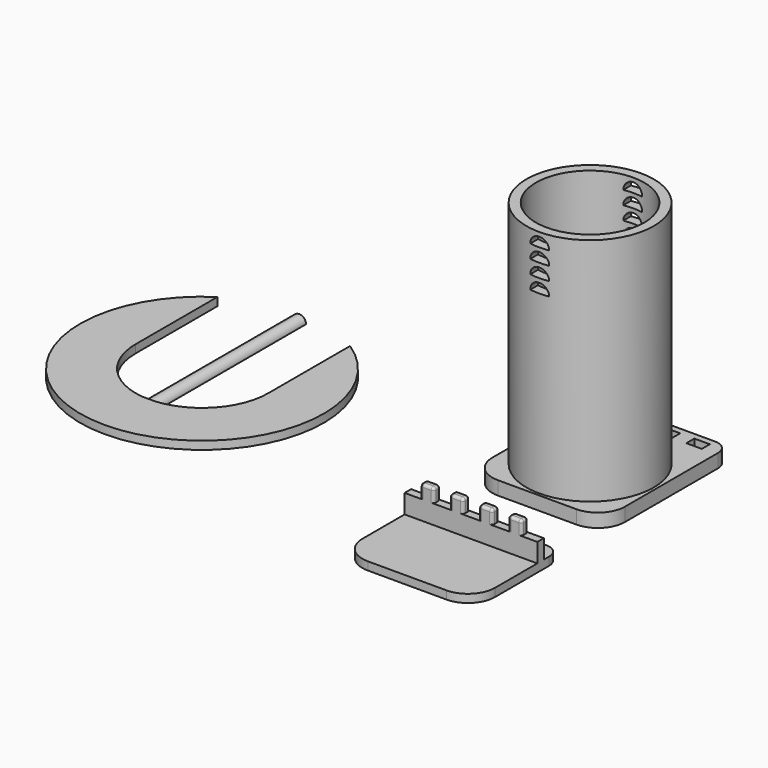
from build123d import *

# Parameters (mm, degrees)
F0_W      = 5.8
F0_H      = 3
F0_W_2    = 5
F1_DEPTH  = 3
F2_DEPTH  = 15
F3_DEPTH  = 10
F0_R      = 23.5
F0_W_3    = 5.7
F0_H_2    = 3.7
F0_R_2    = 20
F4_DEPTH  = 5
F5_DEPTH  = 90
F7_R      = 1
F8_R      = 5
F8_2_R    = 5
F9_R      = 10
F9_2_R    = 10
F11_DEPTH = 69.302617
F12_DEPTH = 118.001


with BuildPart() as f1:
    # F0 (on Top) → F1 (new body)
    with BuildSketch(Plane.XY):
        with Locations((2.9, 31)):
            Rectangle(F0_W, F0_H)
        with Locations((8.3, 31)):
            Rectangle(F0_W_2, F0_H)
        with Locations((19.1, 31)):
            Rectangle(F0_W_2, F0_H)
        with Locations((29.9, 31)):
            Rectangle(F0_W_2, F0_H)
        with Locations((40.7, 31)):
            Rectangle(F0_W_2, F0_H)
        Polygon((0, 29.5), (0, 0), (49, 0), (49, 29.5), (43.2, 29.5), (38.2, 29.5), (32.4, 29.5), (27.4, 29.5), (21.6, 29.5), (16.6, 29.5), (10.8, 29.5), (5.8, 29.5), align=None)
        with Locations((13.7, 31)):
            Rectangle(F0_W, F0_H)
        with Locations((24.5, 31)):
            Rectangle(F0_W, F0_H)
        with Locations((35.3, 31)):
            Rectangle(F0_W, F0_H)
        with Locations((46.1, 31)):
            Rectangle(F0_W, F0_H)
        Polygon((0, 40), (0, 32.5), (5.8, 32.5), (10.8, 32.5), (16.6, 32.5), (21.6, 32.5), (27.4, 32.5), (32.4, 32.5), (38.2, 32.5), (43.2, 32.5), (49, 32.5), (49, 40), align=None)
        with BuildLine():
            Line((-78, 101.815359), (-78, 64.069498))
            ThreePointArc((-78, 64.069498), (-84.313467, 47.653043), (-100, 39.697383))
            Line((-100, 39.697383), (-100, 109))
            Line((-100, 109), (-105, 109))
            Line((-105, 109), (-105, 39.697383))
            ThreePointArc((-105, 39.697383), (-120.686533, 47.653043), (-127, 64.069498))
            Line((-127, 64.069498), (-127, 101.815359))
            ThreePointArc((-127, 101.815359), (-102.5, 19.069498), (-78, 101.815359))
        make_face()
    extrude(amount=F1_DEPTH)

    # F0 (on Top) → F2 (join)
    with BuildSketch(Plane.XY):
        with Locations((8.3, 31)):
            Rectangle(F0_W_2, F0_H)
        with Locations((19.1, 31)):
            Rectangle(F0_W_2, F0_H)
        with Locations((29.9, 31)):
            Rectangle(F0_W_2, F0_H)
        with Locations((40.7, 31)):
            Rectangle(F0_W_2, F0_H)
    extrude(amount=F2_DEPTH)

    # F0 (on Top) → F3 (join)
    with BuildSketch(Plane.XY):
        with Locations((2.9, 31)):
            Rectangle(F0_W, F0_H)
        with Locations((13.7, 31)):
            Rectangle(F0_W, F0_H)
        with Locations((24.5, 31)):
            Rectangle(F0_W, F0_H)
        with Locations((35.3, 31)):
            Rectangle(F0_W, F0_H)
        with Locations((46.1, 31)):
            Rectangle(F0_W, F0_H)
    extrude(amount=F3_DEPTH)

    # F7
    f7_edges = [f1.edges().sort_by_distance(p)[0] for p in [
        (5.8, 31, 15),
        (8.3, 29.5, 15),
        (10.8, 31, 15),
        (8.3, 32.5, 15),
        (16.6, 31, 15),
        (19.1, 29.5, 15),
        (21.6, 31, 15),
        (19.1, 32.5, 15),
        (29.9, 29.5, 15),
        (32.4, 31, 15),
        (29.9, 32.5, 15),
        (27.4, 31, 15),
        (40.7, 29.5, 15),
        (43.2, 31, 15),
        (40.7, 32.5, 15),
        (38.2, 31, 15),
        (5.8, 29.5, 12.5),
        (10.8, 29.5, 12.5),
        (16.6, 29.5, 12.5),
        (21.6, 29.5, 12.5),
        (27.4, 29.5, 12.5),
        (32.4, 29.5, 12.5),
        (38.2, 29.5, 12.5),
        (43.2, 29.5, 12.5),
        (43.2, 32.5, 12.5),
        (38.2, 32.5, 12.5),
        (32.4, 32.5, 12.5),
        (27.4, 32.5, 12.5),
        (21.6, 32.5, 12.5),
        (16.6, 32.5, 12.5),
        (10.8, 32.5, 12.5),
        (5.8, 32.5, 12.5),
    ]]
    fillet(f7_edges, radius=F7_R)

    # F8
    f8_edges = [f1.edges().sort_by_distance(p)[0] for p in [
        (49, 40, 1.5),
        (0, 40, 1.5),
    ]]
    fillet(f8_edges, radius=F8_R)

    # F9
    f9_edges = [f1.edges().sort_by_distance(p)[0] for p in [
        (0, 0, 1.5),
        (49, 0, 1.5),
    ]]
    fillet(f9_edges, radius=F9_R)

    # F10 (on face) → F11 (cut, through all)
    with BuildSketch(Plane(origin=(0, 109, 0), x_dir=(-1, 0, 0), z_dir=(0, 1, 0))):
        with BuildLine():
            ThreePointArc((100, 0), (102.5, 2.5), (105, 0))
            Line((105, 0), (105, 3))
            Line((105, 3), (100, 3))
            Line((100, 3), (100, 0))
        make_face()
    extrude(amount=-F11_DEPTH, mode=Mode.SUBTRACT)


with BuildPart() as f4:
    # F0 (on Top) → F4 (new body)
    with BuildSketch(Plane.XY):
        Polygon((0, 109), (0, 60), (49, 60), (49, 109), (49, 118), (0, 118), align=None)
        with Locations((24.5, 84.5)):
            Circle(F0_R, mode=Mode.SUBTRACT)
        with Locations((8.09, 113.85)):
            Rectangle(F0_W_3, F0_H_2, mode=Mode.SUBTRACT)
        with Locations((19.03, 113.85)):
            Rectangle(F0_W_3, F0_H_2, mode=Mode.SUBTRACT)
        with Locations((29.97, 113.85)):
            Rectangle(F0_W_3, F0_H_2, mode=Mode.SUBTRACT)
        with Locations((40.91, 113.85)):
            Rectangle(F0_W_3, F0_H_2, mode=Mode.SUBTRACT)
        with Locations((24.5, 84.5)):
            Circle(F0_R)
        with Locations((24.5, 84.5)):
            Circle(F0_R_2, mode=Mode.SUBTRACT)
    extrude(amount=F4_DEPTH)

    # F0 (on Top) → F5 (join)
    with BuildSketch(Plane.XY):
        with Locations((24.5, 84.5)):
            Circle(F0_R)
        with Locations((24.5, 84.5)):
            Circle(F0_R_2, mode=Mode.SUBTRACT)
    extrude(amount=F5_DEPTH)

    # F8#2
    f8_2_edges = [f4.edges().sort_by_distance(p)[0] for p in [
        (0, 118, 2.5),
        (49, 118, 2.5),
    ]]
    fillet(f8_2_edges, radius=F8_2_R)

    # F9#2
    f9_2_edges = [f4.edges().sort_by_distance(p)[0] for p in [
        (0, 60, 2.5),
        (49, 60, 2.5),
    ]]
    fillet(f9_2_edges, radius=F9_2_R)

    # F6 (on Front) → F12 (cut, through all)
    with BuildSketch(Plane.XZ):
        with BuildLine():
            ThreePointArc((28, 85), (24.5, 88.5), (21, 85))
            Line((21, 85), (28, 85))
        make_face()
        with BuildLine():
            ThreePointArc((28, 80), (24.5, 83.5), (21, 80))
            Line((21, 80), (28, 80))
        make_face()
        with BuildLine():
            ThreePointArc((28, 75), (24.5, 78.5), (21, 75))
            Line((21, 75), (28, 75))
        make_face()
        with BuildLine():
            ThreePointArc((28, 70), (24.5, 73.5), (21, 70))
            Line((21, 70), (28, 70))
        make_face()
    extrude(amount=-F12_DEPTH, mode=Mode.SUBTRACT)


solid = Compound([f1.part, f4.part])
